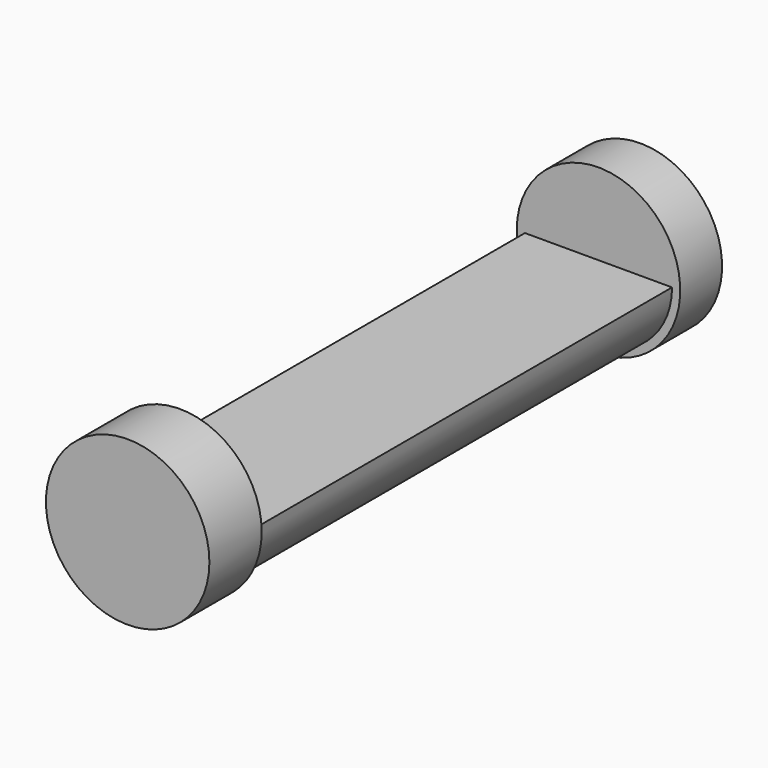
from build123d import *

# Parameters (mm, degrees)
F0_R     = 14.2875
F1_DEPTH = 101.6
F2_R     = 15.875
F3_DEPTH = 12.7
F4_R     = 15.875
F5_DEPTH = 10.16
F7_DEPTH = 101.6


with BuildPart() as f1:
    # F0 (on Front) → F1 (new body)
    with BuildSketch(Plane.XZ):
        Circle(F0_R)
    extrude(amount=F1_DEPTH)

    # F2 (on face) → F3 (join)
    with BuildSketch(Plane.XZ.offset(101.6)):
        Circle(F2_R)
    extrude(amount=F3_DEPTH)

    # F4 (on face) → F5 (join)
    with BuildSketch(Plane(origin=(0, 0, 0), x_dir=(-1, 0, 0), z_dir=(0, 1, 0))):
        Circle(F4_R)
    extrude(amount=F5_DEPTH)

    # F6 (on Front) → F7 (cut)
    with BuildSketch(Plane.XZ):
        with BuildLine():
            Line((-14.2875, 0), (0, 0))
            Line((0, 0), (14.2875, 0))
            ThreePointArc((14.2875, 0), (0, 14.2875), (-14.2875, 0))
        make_face()
    extrude(amount=F7_DEPTH, mode=Mode.SUBTRACT)


solid = f1.part
